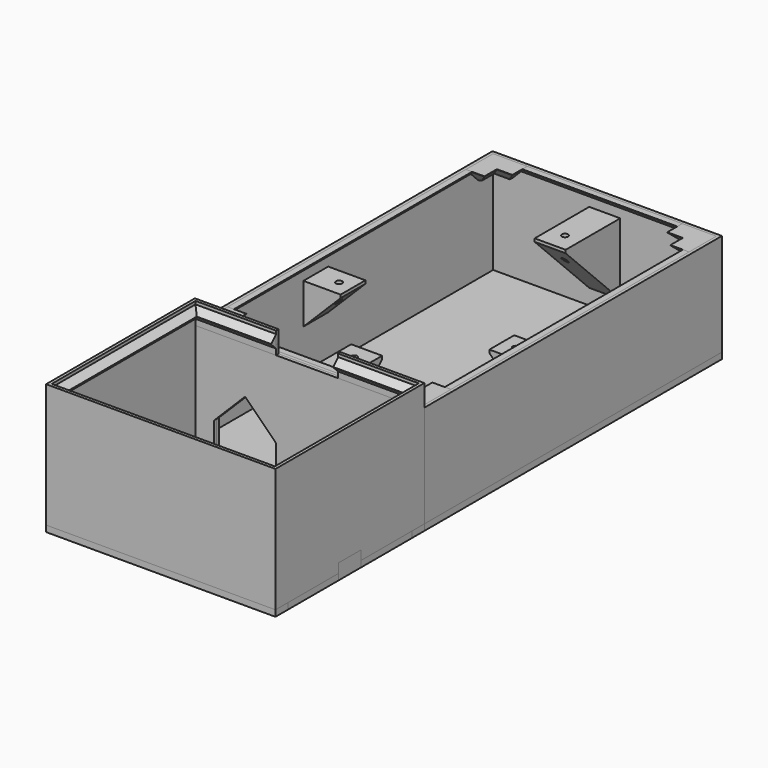
from build123d import *

# Parameters (mm, degrees)
BOX028_W                   = 72
BOX028_H                   = 2
BOX028_DEPTH               = 2
CHAMFER009_SIZE            = 1.99
BOX037_W                   = 26
BOX037_H                   = 16
BOX037_DEPTH               = 3.5
BOX031_W                   = 2
BOX031_H                   = 118
BOX031_DEPTH               = 2
CHAMFER008_SIZE            = 1.9
BOX030_W                   = 72
BOX030_H                   = 2
BOX030_DEPTH               = 2
CHAMFER028_SIZE            = 1.9
BOX029_W                   = 2
BOX029_H                   = 118
BOX029_DEPTH               = 2
CHAMFER010_SIZE            = 1.9
BOX046_W                   = 72
BOX046_H                   = 2
BOX046_DEPTH               = 2
CHAMFER011_SIZE            = 1.9
BOX024_W                   = 5
BOX024_H                   = 5
BOX024_DEPTH               = 5
BOX025_W                   = 11
BOX025_H                   = 11
BOX025_DEPTH               = 5
CHAMFER004_SIZE            = 4.9
CHAMFER013_SIZE            = 0.9
BOX048_W                   = 5
BOX048_H                   = 5
BOX048_DEPTH               = 5
BOX047_W                   = 11
BOX047_H                   = 11
BOX047_DEPTH               = 5
CHAMFER012_SIZE            = 4.9
CHAMFER012_PLACEMENT_ANGLE = 90
CHAMFER014_SIZE            = 0.9
BOX034_W                   = 5
BOX034_H                   = 5
BOX034_DEPTH               = 5
BOX035_W                   = 11
BOX035_H                   = 11
BOX035_DEPTH               = 5
CHAMFER015_SIZE            = 4.9
CHAMFER016_SIZE            = 0.9
CHAMFER016_PLACEMENT_ANGLE = 180
BOX049_W                   = 5
BOX049_H                   = 5
BOX049_DEPTH               = 5
BOX050_W                   = 11
BOX050_H                   = 11
BOX050_DEPTH               = 5
CHAMFER017_SIZE            = 4.9
CHAMFER018_SIZE            = 0.9
CHAMFER018_PLACEMENT_ANGLE = -90
CYLINDER002_R              = 1
CYLINDER002_DEPTH          = 40
BOX040_W                   = 10
BOX040_H                   = 23
BOX040_DEPTH               = 23
CHAMFER019_SIZE            = 22
CYLINDER005_R              = 1
CYLINDER005_DEPTH          = 40
BOX052_W                   = 13
BOX052_H                   = 10
BOX052_DEPTH               = 13
CHAMFER030_SIZE            = 12
CYLINDER004_R              = 1
CYLINDER004_DEPTH          = 40
BOX051_W                   = 13
BOX051_H                   = 10
BOX051_DEPTH               = 13
CHAMFER029_SIZE            = 12
CYLINDER003_R              = 1
CYLINDER003_DEPTH          = 40
BOX041_W                   = 10
BOX041_H                   = 23
BOX041_DEPTH               = 23
CHAMFER020_SIZE            = 22
BOX055_W                   = 20
BOX055_H                   = 10
BOX055_DEPTH               = 20
CHAMFER034_SIZE            = 9.99
BOX054_W                   = 20
BOX054_H                   = 10
BOX054_DEPTH               = 20
CHAMFER033_SIZE            = 9.99
BOX001_W                   = 72
BOX001_H                   = 118
BOX001_DEPTH               = 35
BOX_W                      = 74
BOX_H                      = 120
BOX_DEPTH                  = 35
BOX056_W                   = 20
BOX056_H                   = 10
BOX056_DEPTH               = 10
BOX039_W                   = 68
BOX039_H                   = 54
BOX039_DEPTH               = 4.1
BOX038_W                   = 74
BOX038_H                   = 60
BOX038_DEPTH               = 4.1
CHAMFER021_SIZE            = 2
CHAMFER022_SIZE            = 2
BOX033_W                   = 72
BOX033_H                   = 58
BOX033_DEPTH               = 42
BOX032_W                   = 74
BOX032_H                   = 60
BOX032_DEPTH               = 42
BOX045_W                   = 72
BOX045_H                   = 1
BOX045_DEPTH               = 4
CHAMFER027_SIZE            = 0.99
BOX059_W                   = 9.5
BOX059_H                   = 60
BOX059_DEPTH               = 2
BOX060_W                   = 9.5
BOX060_H                   = 60
BOX060_DEPTH               = 2
BOX061_W                   = 74
BOX061_H                   = 5
BOX061_DEPTH               = 2
BOX062_W                   = 74
BOX062_H                   = 5
BOX062_DEPTH               = 2
CYLINDER011_R              = 1
CYLINDER011_DEPTH          = 10
CYLINDER010_R              = 1
CYLINDER010_DEPTH          = 10
CYLINDER001_R              = 2
CYLINDER001_DEPTH          = 10
CYLINDER_R                 = 2
CYLINDER_DEPTH             = 10
BOX058_W                   = 74
BOX058_H                   = 9
BOX058_DEPTH               = 5
BOX064_W                   = 12
BOX064_H                   = 12
BOX064_DEPTH               = 10
BOX063_W                   = 12
BOX063_H                   = 12
BOX063_DEPTH               = 10
CYLINDER009_R              = 1
CYLINDER009_DEPTH          = 10
CYLINDER008_R              = 1
CYLINDER008_DEPTH          = 10
BOX053_W                   = 40
BOX053_H                   = 25
BOX053_DEPTH               = 10
CYLINDER007_R              = 0.8
CYLINDER007_DEPTH          = 10
CYLINDER006_R              = 0.8
CYLINDER006_DEPTH          = 10
BOX014_W                   = 74
BOX014_H                   = 120
BOX014_DEPTH               = 2
CHAMFER_SIZE               = 1.5
CHAMFER031_SIZE            = 1.5
FILLET_R                   = 5


with BuildPart() as chamfer009:
    # Box028 → Box028 (new body)
    with BuildSketch(Plane(origin=(1, 1, 33), x_dir=(1, 0, 0), z_dir=(0, 0, 1))):
        with Locations((36, 1)):
            Rectangle(BOX028_W, BOX028_H)
    extrude(amount=BOX028_DEPTH)

    # Chamfer009
    chamfer009_edges = [chamfer009.edges().sort_by_distance(p)[0] for p in [
        (37, 3, 33),
    ]]
    chamfer(chamfer009_edges, length=CHAMFER009_SIZE)


with BuildPart() as cube028:
    # Box037 → Box037 (new body)
    with BuildSketch(Plane(origin=(24, -38, 0), x_dir=(1, 0, 0), z_dir=(0, 0, 1))):
        with Locations((13, 8)):
            Rectangle(BOX037_W, BOX037_H)
    extrude(amount=BOX037_DEPTH)


with BuildPart() as chamfer008:
    # Box031 → Box031 (new body)
    with BuildSketch(Plane(origin=(71, 1, 33), x_dir=(1, 0, 0), z_dir=(0, 0, 1))):
        with Locations((1, 59)):
            Rectangle(BOX031_W, BOX031_H)
    extrude(amount=BOX031_DEPTH)

    # Chamfer008
    chamfer008_edges = [chamfer008.edges().sort_by_distance(p)[0] for p in [
        (71, 60, 33),
    ]]
    chamfer(chamfer008_edges, length=CHAMFER008_SIZE)


with BuildPart() as chamfer028:
    # Box030 → Box030 (new body)
    with BuildSketch(Plane(origin=(1, 117, 33), x_dir=(1, 0, 0), z_dir=(0, 0, 1))):
        with Locations((36, 1)):
            Rectangle(BOX030_W, BOX030_H)
    extrude(amount=BOX030_DEPTH)

    # Chamfer028
    chamfer028_edges = [chamfer028.edges().sort_by_distance(p)[0] for p in [
        (37, 117, 33),
    ]]
    chamfer(chamfer028_edges, length=CHAMFER028_SIZE)


with BuildPart() as chamfer010:
    # Box029 → Box029 (new body)
    with BuildSketch(Plane(origin=(1, 1, 33), x_dir=(1, 0, 0), z_dir=(0, 0, 1))):
        with Locations((1, 59)):
            Rectangle(BOX029_W, BOX029_H)
    extrude(amount=BOX029_DEPTH)

    # Chamfer010
    chamfer010_edges = [chamfer010.edges().sort_by_distance(p)[0] for p in [
        (3, 60, 33),
    ]]
    chamfer(chamfer010_edges, length=CHAMFER010_SIZE)


with BuildPart() as chamfer011:
    # Box046 → Box046 (new body)
    with BuildSketch(Plane(origin=(1, 1, 33), x_dir=(1, 0, 0), z_dir=(0, 0, 1))):
        with Locations((36, 1)):
            Rectangle(BOX046_W, BOX046_H)
    extrude(amount=BOX046_DEPTH)

    # Chamfer011
    chamfer011_edges = [chamfer011.edges().sort_by_distance(p)[0] for p in [
        (37, 3, 33),
    ]]
    chamfer(chamfer011_edges, length=CHAMFER011_SIZE)


with BuildPart() as cube019:
    # Box024 → Box024 (new body)
    with BuildSketch(Plane(origin=(63, 109, 30), x_dir=(1, 0, 0), z_dir=(0, 0, 1))):
        with Locations((2.5, 2.5)):
            Rectangle(BOX024_W, BOX024_H)
    extrude(amount=BOX024_DEPTH)


with BuildPart() as chamfer013:
    # Box025 → Box025 (new body)
    with BuildSketch(Plane(origin=(63, 109, 30), x_dir=(1, 0, 0), z_dir=(0, 0, 1))):
        with Locations((5.5, 5.5)):
            Rectangle(BOX025_W, BOX025_H)
    extrude(amount=BOX025_DEPTH)

    # Cut012: cut Cube019
    add(cube019.part, mode=Mode.SUBTRACT)

    # Chamfer004
    chamfer004_edges = [chamfer013.edges().sort_by_distance(p)[0] for p in [
        (63, 117, 30),
        (65.5, 114, 30),
        (71, 109, 30),
        (68, 111.5, 30),
    ]]
    chamfer(chamfer004_edges, length=CHAMFER004_SIZE)


with BuildPart() as chamfer013_1:
    # Chamfer004 placement: moved
    add(chamfer013.part.moved(Location((-1, -1, 0))))

    # Chamfer013
    chamfer013_edges = [chamfer013_1.edges().sort_by_distance(p)[0] for p in [
        (69.4, 117.9, 30),
        (71.9, 115.4, 30),
    ]]
    chamfer(chamfer013_edges, length=CHAMFER013_SIZE)


with BuildPart() as cube037:
    # Box048 → Box048 (new body)
    with BuildSketch(Plane(origin=(63, 109, 30), x_dir=(1, 0, 0), z_dir=(0, 0, 1))):
        with Locations((2.5, 2.5)):
            Rectangle(BOX048_W, BOX048_H)
    extrude(amount=BOX048_DEPTH)


with BuildPart() as chamfer014:
    # Box047 → Box047 (new body)
    with BuildSketch(Plane(origin=(63, 109, 30), x_dir=(1, 0, 0), z_dir=(0, 0, 1))):
        with Locations((5.5, 5.5)):
            Rectangle(BOX047_W, BOX047_H)
    extrude(amount=BOX047_DEPTH)

    # Cut013: cut Cube037
    add(cube037.part, mode=Mode.SUBTRACT)

    # Chamfer012
    chamfer012_edges = [chamfer014.edges().sort_by_distance(p)[0] for p in [
        (63, 117, 30),
        (65.5, 114, 30),
        (71, 109, 30),
        (68, 111.5, 30),
    ]]
    chamfer(chamfer012_edges, length=CHAMFER012_SIZE)


with BuildPart() as chamfer014_1:
    # Chamfer012 placement: moved
    add(chamfer014.part.moved(Location((121, 45, 0))).rotate(Axis((121, 45, 0), (0, 0, 1)), CHAMFER012_PLACEMENT_ANGLE))

    # Chamfer014
    chamfer014_edges = [chamfer014_1.edges().sort_by_distance(p)[0] for p in [
        (2.1, 115.4, 30),
        (4.6, 117.9, 30),
    ]]
    chamfer(chamfer014_edges, length=CHAMFER014_SIZE)


with BuildPart() as cube029:
    # Box034 → Box034 (new body)
    with BuildSketch(Plane(origin=(63, 109, 30), x_dir=(1, 0, 0), z_dir=(0, 0, 1))):
        with Locations((2.5, 2.5)):
            Rectangle(BOX034_W, BOX034_H)
    extrude(amount=BOX034_DEPTH)


with BuildPart() as chamfer016:
    # Box035 → Box035 (new body)
    with BuildSketch(Plane(origin=(63, 109, 30), x_dir=(1, 0, 0), z_dir=(0, 0, 1))):
        with Locations((5.5, 5.5)):
            Rectangle(BOX035_W, BOX035_H)
    extrude(amount=BOX035_DEPTH)

    # Cut020: cut Cube029
    add(cube029.part, mode=Mode.SUBTRACT)

    # Chamfer015
    chamfer015_edges = [chamfer016.edges().sort_by_distance(p)[0] for p in [
        (63, 117, 30),
        (65.5, 114, 30),
        (71, 109, 30),
        (68, 111.5, 30),
    ]]
    chamfer(chamfer015_edges, length=CHAMFER015_SIZE)


with BuildPart() as chamfer016_1:
    # Chamfer015 placement: moved
    add(chamfer016.part.moved(Location((-1, -1, 0))))

    # Chamfer016
    chamfer016_edges = [chamfer016_1.edges().sort_by_distance(p)[0] for p in [
        (69.4, 117.9, 30),
        (71.9, 115.4, 30),
    ]]
    chamfer(chamfer016_edges, length=CHAMFER016_SIZE)


with BuildPart() as chamfer016_2:
    # Chamfer016 placement: moved
    add(chamfer016_1.part.moved(Location((74, 120, 0))).rotate(Axis((74, 120, 0), (0, 0, 1)), CHAMFER016_PLACEMENT_ANGLE))


with BuildPart() as cube031:
    # Box049 → Box049 (new body)
    with BuildSketch(Plane(origin=(63, 109, 30), x_dir=(1, 0, 0), z_dir=(0, 0, 1))):
        with Locations((2.5, 2.5)):
            Rectangle(BOX049_W, BOX049_H)
    extrude(amount=BOX049_DEPTH)


with BuildPart() as chamfer018:
    # Box050 → Box050 (new body)
    with BuildSketch(Plane(origin=(63, 109, 30), x_dir=(1, 0, 0), z_dir=(0, 0, 1))):
        with Locations((5.5, 5.5)):
            Rectangle(BOX050_W, BOX050_H)
    extrude(amount=BOX050_DEPTH)

    # Cut015: cut Cube031
    add(cube031.part, mode=Mode.SUBTRACT)

    # Chamfer017
    chamfer017_edges = [chamfer018.edges().sort_by_distance(p)[0] for p in [
        (63, 117, 30),
        (65.5, 114, 30),
        (71, 109, 30),
        (68, 111.5, 30),
    ]]
    chamfer(chamfer017_edges, length=CHAMFER017_SIZE)


with BuildPart() as chamfer018_1:
    # Chamfer017 placement: moved
    add(chamfer018.part.moved(Location((-1, -1, 0))))

    # Chamfer018
    chamfer018_edges = [chamfer018_1.edges().sort_by_distance(p)[0] for p in [
        (69.4, 117.9, 30),
        (71.9, 115.4, 30),
    ]]
    chamfer(chamfer018_edges, length=CHAMFER018_SIZE)


with BuildPart() as chamfer018_2:
    # Chamfer018 placement: moved
    add(chamfer018_1.part.moved(Location((-46, 74, 0))).rotate(Axis((-46, 74, 0), (0, 0, 1)), CHAMFER018_PLACEMENT_ANGLE))


with BuildPart() as cylinder002:
    # Cylinder002 → Cylinder002 (new body)
    with BuildSketch(Plane(origin=(37, 18, 0), x_dir=(1, 0, 0), z_dir=(0, 0, 1))):
        Circle(CYLINDER002_R)
    extrude(amount=CYLINDER002_DEPTH)


with BuildPart() as cut021:
    # Box040 → Box040 (new body)
    with BuildSketch(Plane(origin=(32, 0, 7), x_dir=(1, 0, 0), z_dir=(0, 0, 1))):
        with Locations((5, 11.5)):
            Rectangle(BOX040_W, BOX040_H)
    extrude(amount=BOX040_DEPTH)

    # Chamfer019
    chamfer019_edges = [cut021.edges().sort_by_distance(p)[0] for p in [
        (37, 23, 7),
    ]]
    chamfer(chamfer019_edges, length=CHAMFER019_SIZE)

    # Cut021: cut Cylinder002
    add(cylinder002.part, mode=Mode.SUBTRACT)


with BuildPart() as cylinder005:
    # Cylinder005 → Cylinder005 (new body)
    with BuildSketch(Plane(origin=(65.5, 47.5, 0), x_dir=(1, 0, 0), z_dir=(0, 0, 1))):
        Circle(CYLINDER005_R)
    extrude(amount=CYLINDER005_DEPTH)


with BuildPart() as cut022:
    # Box052 → Box052 (new body)
    with BuildSketch(Plane(origin=(61, 42.5, 17), x_dir=(1, 0, 0), z_dir=(0, 0, 1))):
        with Locations((6.5, 5)):
            Rectangle(BOX052_W, BOX052_H)
    extrude(amount=BOX052_DEPTH)

    # Chamfer030
    chamfer030_edges = [cut022.edges().sort_by_distance(p)[0] for p in [
        (61, 47.5, 17),
    ]]
    chamfer(chamfer030_edges, length=CHAMFER030_SIZE)

    # Cut022: cut Cylinder005
    add(cylinder005.part, mode=Mode.SUBTRACT)


with BuildPart() as cylinder004:
    # Cylinder004 → Cylinder004 (new body)
    with BuildSketch(Plane(origin=(8.5, 47.5, 0), x_dir=(1, 0, 0), z_dir=(0, 0, 1))):
        Circle(CYLINDER004_R)
    extrude(amount=CYLINDER004_DEPTH)


with BuildPart() as cut018:
    # Box051 → Box051 (new body)
    with BuildSketch(Plane(origin=(0, 42.5, 17), x_dir=(1, 0, 0), z_dir=(0, 0, 1))):
        with Locations((6.5, 5)):
            Rectangle(BOX051_W, BOX051_H)
    extrude(amount=BOX051_DEPTH)

    # Chamfer029
    chamfer029_edges = [cut018.edges().sort_by_distance(p)[0] for p in [
        (13, 47.5, 17),
    ]]
    chamfer(chamfer029_edges, length=CHAMFER029_SIZE)

    # Cut018: cut Cylinder004
    add(cylinder004.part, mode=Mode.SUBTRACT)


with BuildPart() as cylinder003:
    # Cylinder003 → Cylinder003 (new body)
    with BuildSketch(Plane(origin=(37, 103, 0), x_dir=(1, 0, 0), z_dir=(0, 0, 1))):
        Circle(CYLINDER003_R)
    extrude(amount=CYLINDER003_DEPTH)


with BuildPart() as cut023:
    # Box041 → Box041 (new body)
    with BuildSketch(Plane(origin=(32, 97, 7), x_dir=(1, 0, 0), z_dir=(0, 0, 1))):
        with Locations((5, 11.5)):
            Rectangle(BOX041_W, BOX041_H)
    extrude(amount=BOX041_DEPTH)

    # Chamfer020
    chamfer020_edges = [cut023.edges().sort_by_distance(p)[0] for p in [
        (37, 97, 7),
    ]]
    chamfer(chamfer020_edges, length=CHAMFER020_SIZE)

    # Cut023: cut Cylinder003
    add(cylinder003.part, mode=Mode.SUBTRACT)


with BuildPart() as chamfer034:
    # Box055 → Box055 (new body)
    with BuildSketch(Plane(origin=(47, -5, 0), x_dir=(1, 0, 0), z_dir=(0, 0, 1))):
        with Locations((10, 5)):
            Rectangle(BOX055_W, BOX055_H)
    extrude(amount=BOX055_DEPTH)

    # Chamfer034
    chamfer034_edges = [chamfer034.edges().sort_by_distance(p)[0] for p in [
        (47, 0, 20),
        (67, 0, 20),
    ]]
    chamfer(chamfer034_edges, length=CHAMFER034_SIZE)


with BuildPart() as chamfer033:
    # Box054 → Box054 (new body)
    with BuildSketch(Plane(origin=(7, -5, 0), x_dir=(1, 0, 0), z_dir=(0, 0, 1))):
        with Locations((10, 5)):
            Rectangle(BOX054_W, BOX054_H)
    extrude(amount=BOX054_DEPTH)

    # Chamfer033
    chamfer033_edges = [chamfer033.edges().sort_by_distance(p)[0] for p in [
        (7, 0, 20),
        (27, 0, 20),
    ]]
    chamfer(chamfer033_edges, length=CHAMFER033_SIZE)


with BuildPart() as obj1:
    # Box001 → Box001 (new body)
    with BuildSketch(Plane(origin=(1, 1, 0), x_dir=(1, 0, 0), z_dir=(0, 0, 1))):
        with Locations((36, 59)):
            Rectangle(BOX001_W, BOX001_H)
    extrude(amount=BOX001_DEPTH)


with BuildPart() as cut031:
    # Box → Box (new body)
    with BuildSketch(Plane.XY):
        with Locations((37, 60)):
            Rectangle(BOX_W, BOX_H)
    extrude(amount=BOX_DEPTH)

    # Cut: cut obj1
    add(obj1.part, mode=Mode.SUBTRACT)

    # Cut029: cut Chamfer033
    add(chamfer033.part, mode=Mode.SUBTRACT)

    # Cut030: cut Chamfer033
    add(chamfer033.part, mode=Mode.SUBTRACT)

    # Cut031: cut Chamfer034
    add(chamfer034.part, mode=Mode.SUBTRACT)


with BuildPart() as cube043:
    # Box056 → Box056 (new body)
    with BuildSketch(Plane(origin=(27, -5, 35), x_dir=(1, 0, 0), z_dir=(0, 0, 1))):
        with Locations((10, 5)):
            Rectangle(BOX056_W, BOX056_H)
    extrude(amount=BOX056_DEPTH)


with BuildPart() as obj2:
    # Box039 → Box039 (new body)
    with BuildSketch(Plane(origin=(3, -57, 0), x_dir=(1, 0, 0), z_dir=(0, 0, 1))):
        with Locations((34, 27)):
            Rectangle(BOX039_W, BOX039_H)
    extrude(amount=BOX039_DEPTH)


with BuildPart() as cut034:
    # Box038 → Box038 (new body)
    with BuildSketch(Plane(origin=(0, -60, 0), x_dir=(1, 0, 0), z_dir=(0, 0, 1))):
        with Locations((37, 30)):
            Rectangle(BOX038_W, BOX038_H)
    extrude(amount=BOX038_DEPTH)

    # Cut019: cut obj2
    add(obj2.part, mode=Mode.SUBTRACT)


with BuildPart() as cut034_1:
    # Cut019 placement: moved
    add(cut034.part.moved(Location((0, 0, 36.9))))

    # Chamfer021
    chamfer021_edges = [cut034_1.edges().sort_by_distance(p)[0] for p in [
        (37, -3, 41),
        (3, -30, 41),
        (37, -57, 41),
        (71, -30, 41),
    ]]
    chamfer(chamfer021_edges, length=CHAMFER021_SIZE)

    # Chamfer022
    chamfer022_edges = [cut034_1.edges().sort_by_distance(p)[0] for p in [
        (37, -3, 36.9),
        (3, -30, 36.9),
        (71, -30, 36.9),
        (37, -57, 36.9),
    ]]
    chamfer(chamfer022_edges, length=CHAMFER022_SIZE)

    # Cut034: cut Cube043
    add(cube043.part, mode=Mode.SUBTRACT)


with BuildPart() as obj3:
    # Box033 → Box033 (new body)
    with BuildSketch(Plane(origin=(1, -59, 0), x_dir=(1, 0, 0), z_dir=(0, 0, 1))):
        with Locations((36, 29)):
            Rectangle(BOX033_W, BOX033_H)
    extrude(amount=BOX033_DEPTH)


with BuildPart() as cut035:
    # Box032 → Box032 (new body)
    with BuildSketch(Plane(origin=(0, -60, 0), x_dir=(1, 0, 0), z_dir=(0, 0, 1))):
        with Locations((37, 30)):
            Rectangle(BOX032_W, BOX032_H)
    extrude(amount=BOX032_DEPTH)

    # Cut014: cut obj3
    add(obj3.part, mode=Mode.SUBTRACT)

    # Cut032: cut Chamfer033
    add(chamfer033.part, mode=Mode.SUBTRACT)

    # Cut033: cut Chamfer034
    add(chamfer034.part, mode=Mode.SUBTRACT)

    # Cut035: cut Cube043
    add(cube043.part, mode=Mode.SUBTRACT)


with BuildPart() as cut036:
    # Box045 → Box045 (new body)
    with BuildSketch(Plane(origin=(1, -1, 34), x_dir=(1, 0, 0), z_dir=(0, 0, 1))):
        with Locations((36, 0.5)):
            Rectangle(BOX045_W, BOX045_H)
    extrude(amount=BOX045_DEPTH)

    # Chamfer027
    chamfer027_edges = [cut036.edges().sort_by_distance(p)[0] for p in [
        (37, -1, 34),
    ]]
    chamfer(chamfer027_edges, length=CHAMFER027_SIZE)

    # Cut036: cut Cube043
    add(cube043.part, mode=Mode.SUBTRACT)


with BuildPart() as cube046:
    # Box059 → Box059 (new body)
    with BuildSketch(Plane(origin=(0, -60, 0), x_dir=(1, 0, 0), z_dir=(0, 0, 1))):
        with Locations((4.75, 30)):
            Rectangle(BOX059_W, BOX059_H)
    extrude(amount=BOX059_DEPTH)


with BuildPart() as cube047:
    # Box060 → Box060 (new body)
    with BuildSketch(Plane(origin=(64.5, -60, 0), x_dir=(1, 0, 0), z_dir=(0, 0, 1))):
        with Locations((4.75, 30)):
            Rectangle(BOX060_W, BOX060_H)
    extrude(amount=BOX060_DEPTH)


with BuildPart() as cube048:
    # Box061 → Box061 (new body)
    with BuildSketch(Plane(origin=(0, -5, 0), x_dir=(1, 0, 0), z_dir=(0, 0, 1))):
        with Locations((37, 2.5)):
            Rectangle(BOX061_W, BOX061_H)
    extrude(amount=BOX061_DEPTH)


with BuildPart() as cube049:
    # Box062 → Box062 (new body)
    with BuildSketch(Plane(origin=(0, -60, 0), x_dir=(1, 0, 0), z_dir=(0, 0, 1))):
        with Locations((37, 2.5)):
            Rectangle(BOX062_W, BOX062_H)
    extrude(amount=BOX062_DEPTH)


with BuildPart() as cylinder011:
    # Cylinder011 → Cylinder011 (new body)
    with BuildSketch(Plane(origin=(63, -30, 0), x_dir=(1, 0, 0), z_dir=(0, 0, 1))):
        Circle(CYLINDER011_R)
    extrude(amount=CYLINDER011_DEPTH)


with BuildPart() as cylinder010:
    # Cylinder010 → Cylinder010 (new body)
    with BuildSketch(Plane(origin=(11, -30, 0), x_dir=(1, 0, 0), z_dir=(0, 0, 1))):
        Circle(CYLINDER010_R)
    extrude(amount=CYLINDER010_DEPTH)


with BuildPart() as cylinder001:
    # Cylinder001 → Cylinder001 (new body)
    with BuildSketch(Plane(origin=(56.25, -30, 0), x_dir=(1, 0, 0), z_dir=(0, 0, 1))):
        Circle(CYLINDER001_R)
    extrude(amount=CYLINDER001_DEPTH)


with BuildPart() as cylinder:
    # Cylinder → Cylinder (new body)
    with BuildSketch(Plane(origin=(17.75, -30, 0), x_dir=(1, 0, 0), z_dir=(0, 0, 1))):
        Circle(CYLINDER_R)
    extrude(amount=CYLINDER_DEPTH)


with BuildPart() as cut040:
    # Box058 → Box058 (new body)
    with BuildSketch(Plane(origin=(0, -34.5, 0), x_dir=(1, 0, 0), z_dir=(0, 0, 1))):
        with Locations((37, 4.5)):
            Rectangle(BOX058_W, BOX058_H)
    extrude(amount=BOX058_DEPTH)

    # Cut037: cut Cylinder
    add(cylinder.part, mode=Mode.SUBTRACT)

    # Cut038: cut Cylinder001
    add(cylinder001.part, mode=Mode.SUBTRACT)

    # Cut039: cut Cylinder010
    add(cylinder010.part, mode=Mode.SUBTRACT)

    # Cut040: cut Cylinder011
    add(cylinder011.part, mode=Mode.SUBTRACT)


with BuildPart() as cube051:
    # Box064 → Box064 (new body)
    with BuildSketch(Plane(origin=(45, 40, 0), x_dir=(1, 0, 0), z_dir=(0, 0, 1))):
        with Locations((6, 6)):
            Rectangle(BOX064_W, BOX064_H)
    extrude(amount=BOX064_DEPTH)


with BuildPart() as cube050:
    # Box063 → Box063 (new body)
    with BuildSketch(Plane(origin=(17, 40, 0), x_dir=(1, 0, 0), z_dir=(0, 0, 1))):
        with Locations((6, 6)):
            Rectangle(BOX063_W, BOX063_H)
    extrude(amount=BOX063_DEPTH)


with BuildPart() as cylinder009:
    # Cylinder009 → Cylinder009 (new body)
    with BuildSketch(Plane(origin=(37, 47, 0), x_dir=(1, 0, 0), z_dir=(0, 0, 1))):
        Circle(CYLINDER009_R)
    extrude(amount=CYLINDER009_DEPTH)


with BuildPart() as cylinder008:
    # Cylinder008 → Cylinder008 (new body)
    with BuildSketch(Plane(origin=(37, 12, 0), x_dir=(1, 0, 0), z_dir=(0, 0, 1))):
        Circle(CYLINDER008_R)
    extrude(amount=CYLINDER008_DEPTH)


with BuildPart() as cube040:
    # Box053 → Box053 (new body)
    with BuildSketch(Plane(origin=(17, 17, 0), x_dir=(1, 0, 0), z_dir=(0, 0, 1))):
        with Locations((20, 12.5)):
            Rectangle(BOX053_W, BOX053_H)
    extrude(amount=BOX053_DEPTH)


with BuildPart() as cylinder007:
    # Cylinder007 → Cylinder007 (new body)
    with BuildSketch(Plane(origin=(63, 30, 0), x_dir=(1, 0, 0), z_dir=(0, 0, 1))):
        Circle(CYLINDER007_R)
    extrude(amount=CYLINDER007_DEPTH)


with BuildPart() as cylinder006:
    # Cylinder006 → Cylinder006 (new body)
    with BuildSketch(Plane(origin=(11, 30, 0), x_dir=(1, 0, 0), z_dir=(0, 0, 1))):
        Circle(CYLINDER006_R)
    extrude(amount=CYLINDER006_DEPTH)


with BuildPart() as fillet_body:
    # Box014 → Box014 (new body)
    with BuildSketch(Plane.XY):
        with Locations((37, 60)):
            Rectangle(BOX014_W, BOX014_H)
    extrude(amount=BOX014_DEPTH)

    # Cut024: cut Cylinder006
    add(cylinder006.part, mode=Mode.SUBTRACT)

    # Cut025: cut Cylinder007
    add(cylinder007.part, mode=Mode.SUBTRACT)

    # Chamfer
    chamfer_edges = [fillet_body.edges().sort_by_distance(p)[0] for p in [
        (10.2, 30, 2),
    ]]
    chamfer(chamfer_edges, length=CHAMFER_SIZE)

    # Chamfer031
    chamfer031_edges = [fillet_body.edges().sort_by_distance(p)[0] for p in [
        (62.2, 30, 2),
    ]]
    chamfer(chamfer031_edges, length=CHAMFER031_SIZE)

    # Cut026: cut Cube040
    add(cube040.part, mode=Mode.SUBTRACT)

    # Cut027: cut Cylinder008
    add(cylinder008.part, mode=Mode.SUBTRACT)

    # Cut028: cut Cylinder009
    add(cylinder009.part, mode=Mode.SUBTRACT)

    # Cut041: cut Cube050
    add(cube050.part, mode=Mode.SUBTRACT)

    # Cut042: cut Cube051
    add(cube051.part, mode=Mode.SUBTRACT)

    # Fillet
    fillet_edges = [fillet_body.edges().sort_by_distance(p)[0] for p in [
        (45, 42, 1),
        (29, 42, 1),
    ]]
    fillet(fillet_edges, radius=FILLET_R)


solid = Compound([chamfer009.part, cube028.part, chamfer008.part, chamfer028.part, chamfer010.part, chamfer011.part, chamfer013_1.part, chamfer014_1.part, chamfer016_2.part, chamfer018_2.part, cut021.part, cut022.part, cut018.part, cut023.part, cut031.part, cut034_1.part, cut035.part, cut036.part, cube046.part, cube047.part, cube048.part, cube049.part, cut040.part, fillet_body.part])
